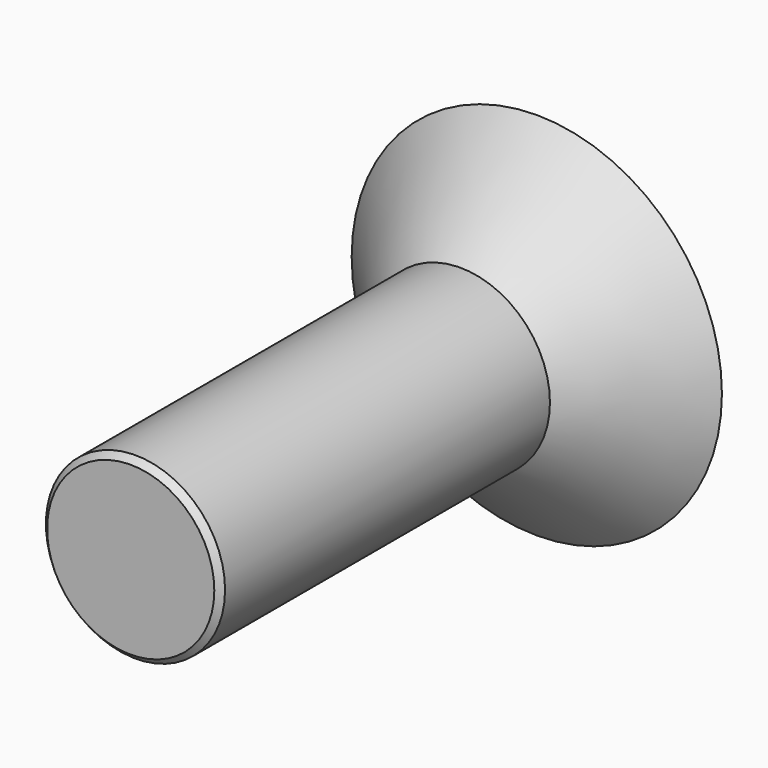
from build123d import *

# Parameters (mm, degrees)
POCKET_DEPTH = 1


with BuildPart() as part:
    # Sketch → Revolution (revolve)
    with BuildSketch(Plane.XY):
        Polygon((0, -6.9), (1.4, -6.9), (1.5, -6.8), (1.5, 0), (3.1, 1.6), (0, 1.6), align=None)
    revolve(axis=Axis((0, 0, 0), (0, 1, 0)))

    # Sketch001 (on Face5 of Revolution) → Pocket (cut)
    with BuildSketch(Plane(origin=(0, 1.6, 0), x_dir=(-1, 0, 0), z_dir=(0, 1, 0))):
        Polygon((0.75, -1.299038), (1.5, 0), (0.75, 1.299038), (-0.75, 1.299038), (-1.5, 0), (-0.75, -1.299038), align=None)
    extrude(amount=-POCKET_DEPTH, mode=Mode.SUBTRACT)


solid = part.part
